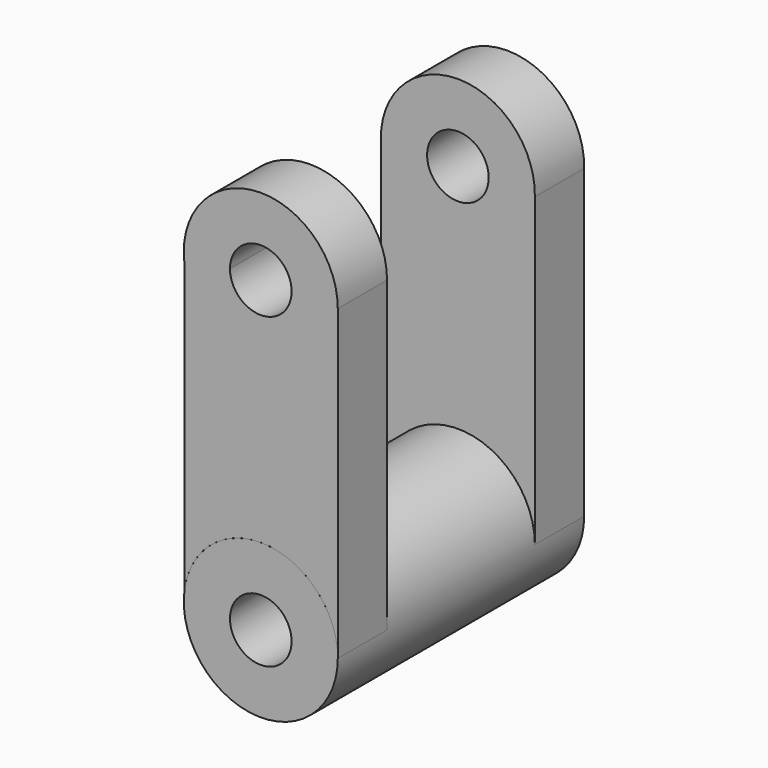
from build123d import *

# Parameters (mm, degrees)
F0_R     = 31.75
F0_R_2   = 12.7
F1_DEPTH = 127
F3_DEPTH = 25.4
F5_DEPTH = 25.4
F6_R     = 12.7
F7_DEPTH = 139.7
F8_R     = 12.7
F9_DEPTH = 38.1


with BuildPart() as f1:
    # F0 (on Front) → F1 (new body)
    with BuildSketch(Plane.XZ):
        Circle(F0_R)
        Circle(F0_R_2, mode=Mode.SUBTRACT)
    extrude(amount=F1_DEPTH)

    # F4 (on face) → F5 (join)
    with BuildSketch(Plane(origin=(0, 0, 0), x_dir=(-1, 0, 0), z_dir=(0, 1, 0))):
        with BuildLine():
            ThreePointArc((-31.7500000692, 0), (-0.344186637, 31.7481344327), (31.7425377423, 0.688332825))
            Line((31.7425377423, 0.688332825), (31.7425377423, 126.311667178))
            ThreePointArc((31.7425377423, 126.311667178), (-0.0196755774, 158.7499923522), (-31.7416601672, 126.2723257371))
            Line((-31.7416601672, 126.2723257371), (-31.7500000692, 0))
        make_face()
    extrude(amount=-F5_DEPTH)


with BuildPart() as f3:
    # F2 (on face) → F3 (new body)
    with BuildSketch(Plane.XZ.offset(127)):
        with BuildLine():
            ThreePointArc((0, 31.75), (22.4506403027, 22.4506403027), (31.75, 0))
            Line((31.75, 0), (31.75, 127))
            ThreePointArc((31.75, 127), (1.8967885005, 158.6932909838), (-31.5233665124, 130.7868012523))
            Line((-31.5233665124, 130.7868012523), (-31.5233665124, 123.2131987477))
            Line((-31.5233665124, 123.2131987477), (-31.5233665124, 3.7868012523))
            ThreePointArc((-31.5233665124, 3.7868012523), (-21.0693089616, 23.7517729839), (0, 31.75))
        make_face()
        with BuildLine():
            Line((-31.5233665124, 123.2131987477), (-31.5233665124, 130.7868012523))
            ThreePointArc((-31.5233665124, 130.7868012523), (-31.75, 127), (-31.5233665124, 123.2131987477))
        make_face()
    extrude(amount=-F3_DEPTH)


with BuildPart() as f7_tool:
    # F6 (on face) → F7 (new body)
    with BuildSketch(Plane(origin=(0, 0, 0), x_dir=(-1, 0, 0), z_dir=(0, 1, 0))):
        Circle(F6_R)
        with Locations((3.56e-08, 126.9999984487)):
            Circle(F6_R)
    extrude(amount=-F7_DEPTH)


with BuildPart() as f1_1:
    add(f1.part)

    # F7: cut by f7_tool
    add(f7_tool.part, mode=Mode.SUBTRACT)


with BuildPart() as f3_1:
    add(f3.part)

    # F7: cut by f7_tool
    add(f7_tool.part, mode=Mode.SUBTRACT)

    # F8 (on face) → F9 (cut)
    with BuildSketch(Plane(origin=(0, -101.6, 0), x_dir=(-1, 0, 0), z_dir=(0, 1, 0))):
        with Locations((0, 127)):
            Circle(F8_R)
    extrude(amount=-F9_DEPTH, mode=Mode.SUBTRACT)


solid = Compound([f1_1.part, f3_1.part])
